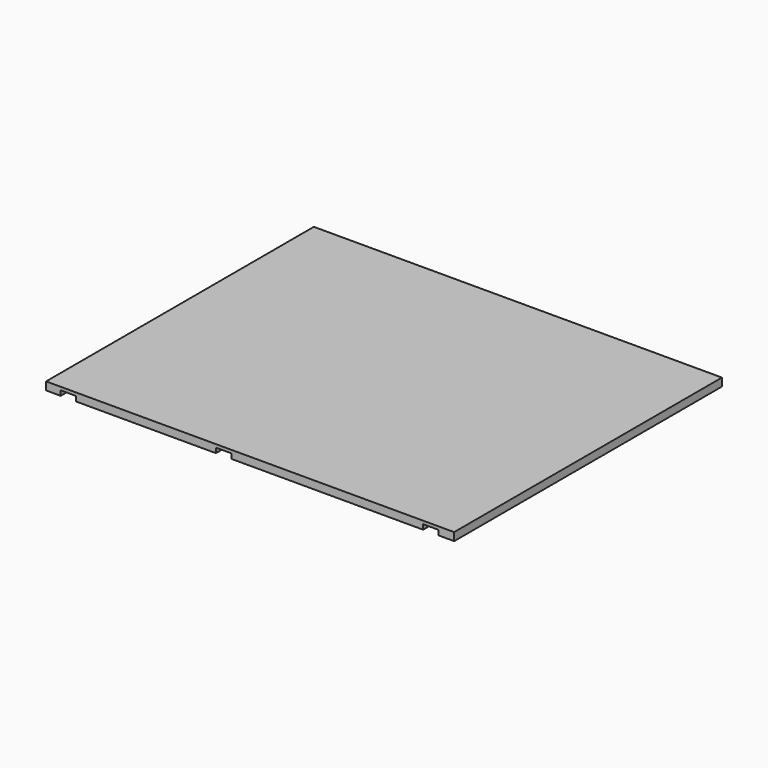
from build123d import *

# Parameters (mm, degrees)
F0_R     = 5
F1_DEPTH = 11
F2_W     = 920
F2_H     = 754.619706
F3_DEPTH = 7
F4_R     = 5
F5_DEPTH = 11


with BuildPart() as f1:
    # F0 (on Top) → F1 (new body)
    with BuildSketch(Plane.XY):
        with BuildLine():
            Line((461.123695, 406.42578), (-458.876305, 406.42578))
            Line((-458.876305, 406.42578), (-458.876305, -348.193926))
            Line((-458.876305, -348.193926), (-425.832388, -348.193926))
            Line((-425.832388, -348.193926), (-425.875983, -333.799931))
            ThreePointArc((-425.875983, -333.799931), (-425.876224, -333.746929), (-425.876305, -333.693926))
            ThreePointArc((-425.876305, -333.693926), (-408.376305, -316.193926), (-390.876305, -333.693926))
            Line((-390.876305, -333.693926), (-390.876305, -348.193926))
            Line((-390.876305, -348.193926), (391.123695, -348.193926))
            Line((391.123695, -348.193926), (391.123695, -333.693926))
            ThreePointArc((391.123695, -333.693926), (408.623695, -316.193926), (426.123695, -333.693926))
            Line((426.123695, -333.693926), (426.123695, -348.193926))
            Line((426.123695, -348.193926), (461.123695, -348.193926))
            Line((461.123695, -348.193926), (461.123695, 406.42578))
        make_face()
        with Locations((-408.429307, -303.193926)):
            Circle(F0_R, mode=Mode.SUBTRACT)
        with Locations((408.623695, -303.193926)):
            Circle(F0_R, mode=Mode.SUBTRACT)
    extrude(amount=F1_DEPTH)

    # F2 (on face) → F3 (join)
    with BuildSketch(Plane.XY.offset(11)):
        with Locations((1.123695, 29.115927)):
            Rectangle(F2_W, F2_H)
    extrude(amount=F3_DEPTH)

    # F4 (on face) → F5 (cut)
    with BuildSketch(Plane(origin=(0, 0, 0), x_dir=(1, 0, 0), z_dir=(0, 0, -1))):
        with BuildLine():
            Line((-75.876305, 348.193926), (-75.876305, 333.713589))
            ThreePointArc((-75.876305, 333.713589), (-58.106118, 316.196012), (-40.885277, 334.25391))
            Line((-40.885277, 334.25391), (-40.885277, 348.193926))
            Line((-40.885277, 348.193926), (-56.401658, 373.656452))
            Line((-56.401658, 373.656452), (-75.876305, 348.193926))
        make_face()
        with Locations((-58.376316, 303.193926)):
            Circle(F4_R)
    extrude(amount=-F5_DEPTH, mode=Mode.SUBTRACT)


solid = f1.part
